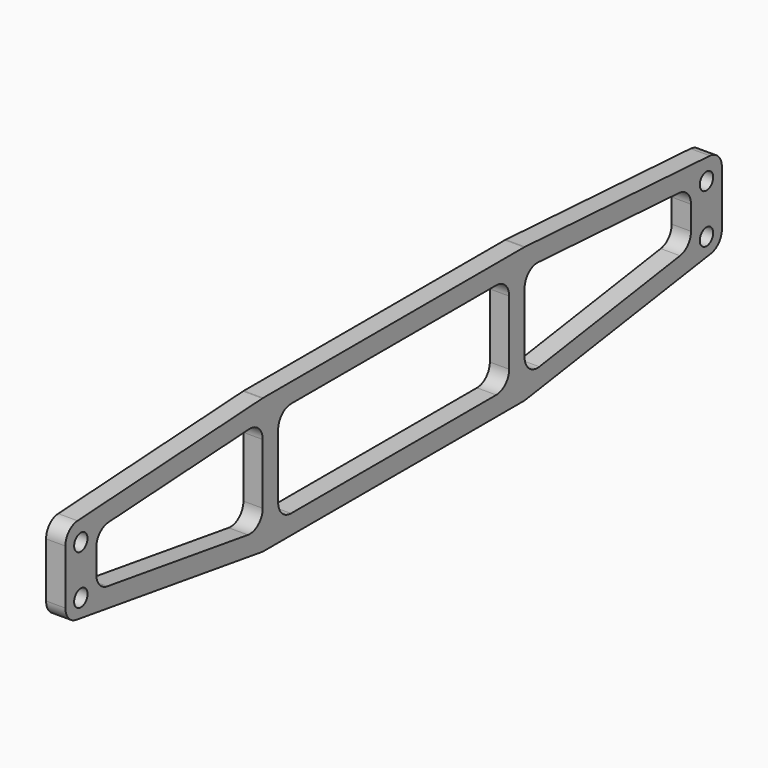
from build123d import *

# Parameters (mm, degrees)
F0_R     = 2.6
F1_DEPTH = 6


with BuildPart() as f1:
    # F0 (on Right) → F1 (new body)
    with BuildSketch(Plane.YZ):
        with BuildLine():
            Line((-50.484604, 0), (0, 0))
            Line((0, 0), (50.484604, 0))
            ThreePointArc((50.484604, 0), (50.854025, 0.013666), (51.221427, 0.054589))
            Line((51.221427, 0.054589), (123.236823, 10.784256))
            ThreePointArc((123.236823, 10.784256), (126.287091, 12.465017), (127.5, 15.729667))
            Line((127.5, 15.729667), (127.5, 32.709328))
            ThreePointArc((127.5, 32.709328), (126.139466, 36.137781), (122.798285, 37.700423))
            Line((122.798285, 37.700423), (51.004047, 41.991095))
            ThreePointArc((51.004047, 41.991095), (50.854971, 41.997773), (50.705762, 42))
            Line((50.705762, 42), (39.15917, 42))
            Line((39.15917, 42), (-39.15917, 42))
            Line((-39.15917, 42), (-50.705762, 42))
            ThreePointArc((-50.705762, 42), (-50.854971, 41.997773), (-51.004047, 41.991095))
            Line((-51.004047, 41.991095), (-122.798285, 37.700423))
            ThreePointArc((-122.798285, 37.700423), (-126.139466, 36.137781), (-127.5, 32.709328))
            Line((-127.5, 32.709328), (-127.5, 15.729667))
            ThreePointArc((-127.5, 15.729667), (-126.287091, 12.465017), (-123.236823, 10.784256))
            Line((-123.236823, 10.784256), (-51.221427, 0.054589))
            ThreePointArc((-51.221427, 0.054589), (-50.854025, 0.013666), (-50.484604, 0))
        make_face()
        with Locations((-121.5, 16.095773)):
            Circle(F0_R, mode=Mode.SUBTRACT)
        with Locations((121.5, 16.095773)):
            Circle(F0_R, mode=Mode.SUBTRACT)
        with BuildLine():
            Line((-50.855038, 30.681556), (-50.855038, 11.866378))
            ThreePointArc((-50.855038, 11.866378), (-52.590387, 8.079287), (-56.591861, 6.920966))
            Line((-56.591861, 6.920966), (-111.236823, 15.06259))
            ThreePointArc((-111.236823, 15.06259), (-114.287091, 16.743351), (-115.5, 20.008001))
            Line((-115.5, 20.008001), (-115.5, 27.415784))
            ThreePointArc((-115.5, 27.415784), (-114.139466, 30.844237), (-110.798285, 32.406879))
            Line((-110.798285, 32.406879), (-56.153323, 35.672651))
            ThreePointArc((-56.153323, 35.672651), (-52.426585, 34.321022), (-50.855038, 30.681556))
        make_face(mode=Mode.SUBTRACT)
        with Locations((-121.5, 31.328013)):
            Circle(F0_R, mode=Mode.SUBTRACT)
        with BuildLine():
            ThreePointArc((-39.855038, 6), (-43.390572, 7.464466), (-44.855038, 11))
            Line((-44.855038, 11), (-44.855038, 31))
            ThreePointArc((-44.855038, 31), (-43.390572, 34.535534), (-39.855038, 36))
            Line((-39.855038, 36), (-39.15917, 36))
            Line((-39.15917, 36), (39.15917, 36))
            Line((39.15917, 36), (39.855038, 36))
            ThreePointArc((39.855038, 36), (43.390572, 34.535534), (44.855038, 31))
            Line((44.855038, 31), (44.855038, 11))
            ThreePointArc((44.855038, 11), (43.390572, 7.464466), (39.855038, 6))
            Line((39.855038, 6), (0, 6))
            Line((0, 6), (-39.855038, 6))
        make_face(mode=Mode.SUBTRACT)
        with BuildLine():
            Line((56.153323, 35.672651), (110.798285, 32.406879))
            ThreePointArc((110.798285, 32.406879), (114.139466, 30.844237), (115.5, 27.415784))
            Line((115.5, 27.415784), (115.5, 20.008001))
            ThreePointArc((115.5, 20.008001), (114.287091, 16.743351), (111.236823, 15.06259))
            Line((111.236823, 15.06259), (56.591861, 6.920966))
            ThreePointArc((56.591861, 6.920966), (52.590387, 8.079287), (50.855038, 11.866378))
            Line((50.855038, 11.866378), (50.855038, 30.681556))
            ThreePointArc((50.855038, 30.681556), (52.426585, 34.321022), (56.153323, 35.672651))
        make_face(mode=Mode.SUBTRACT)
        with Locations((121.5, 31.328013)):
            Circle(F0_R, mode=Mode.SUBTRACT)
    extrude(amount=F1_DEPTH)


solid = f1.part
